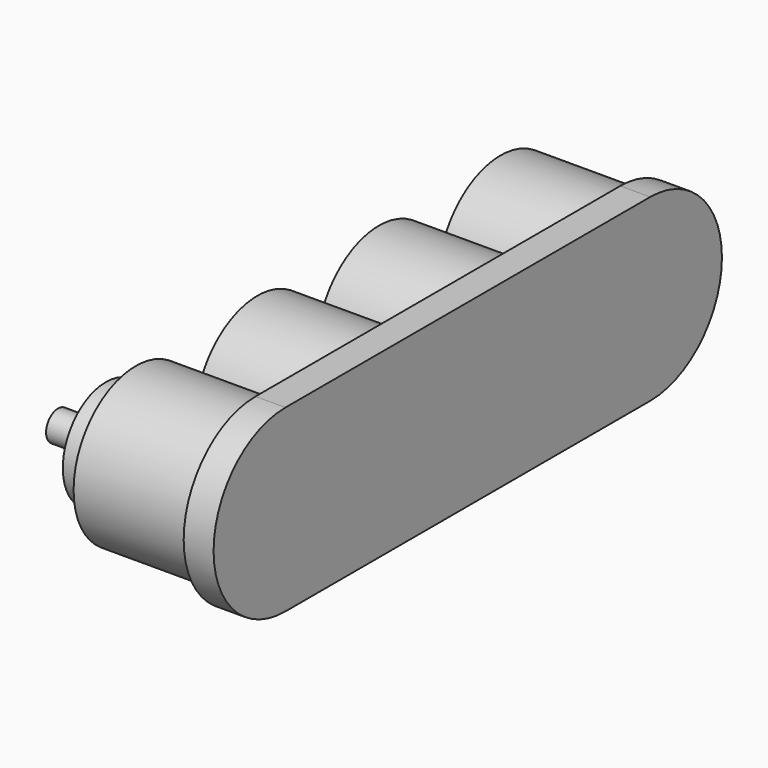
from build123d import *

# Parameters (mm, degrees)
PAD_DEPTH        = 2
PAD001_DEPTH     = 0.5
HOLE_D           = 1.4
HOLE_DEPTH       = 2
HOLE_CBORE_D     = 1.8
HOLE_CBORE_DEPTH = 1.3


with BuildPart() as obj1:
    # Sketch → Revolution (revolve)
    with BuildSketch(Plane(origin=(0, 0, 0), x_dir=(-1, 0, 0), z_dir=(0, 1, 0))):
        with BuildLine():
            Line((-1.85, 0.9), (0, 0.9))
            Line((0, 0.9), (0, 0.25))
            Line((0.8, 0.25), (0, 0.25))
            Line((0.8, 0), (0.8, 0.25))
            Line((-2.4, 0), (0.8, 0))
            Line((-2.4, 0), (-2.4, 0.15))
            ThreePointArc((-1.95, 0.6), (-2.268198, 0.468198), (-2.4, 0.15))
            Line((-1.9, 0.6), (-1.95, 0.6))
            Line((-1.9, 0.6), (-1.9, 0.85))
            ThreePointArc((-1.85, 0.9), (-1.885355, 0.885355), (-1.9, 0.85))
        make_face()
    revolve(axis=Axis((0, 0, 0), (-1, 0, 0)))


with BuildPart() as obj1_cap:
    # Sketch001 → Pad (new body)
    with BuildSketch(Plane.YZ.offset(0.5)):
        with BuildLine():
            ThreePointArc((1.2, 0.5), (-1.3, 0), (1.2, -0.5))
            Line((1.2, -0.5), (1.34, -0.5))
            ThreePointArc((1.34, -0.5), (2.54, -1.3), (3.74, -0.5))
            Line((3.74, -0.5), (3.88, -0.5))
            ThreePointArc((3.88, -0.5), (5.08, -1.3), (6.28, -0.5))
            Line((6.42, -0.5), (6.28, -0.5))
            ThreePointArc((6.42, -0.5), (8.92, 0), (6.42, 0.5))
            Line((6.28, 0.5), (6.42, 0.5))
            ThreePointArc((6.28, 0.5), (5.08, 1.3), (3.88, 0.5))
            Line((3.74, 0.5), (3.88, 0.5))
            ThreePointArc((3.74, 0.5), (2.54, 1.3), (1.34, 0.5))
            Line((1.2, 0.5), (1.34, 0.5))
        make_face()
    extrude(amount=PAD_DEPTH)

    # Sketch002 → Pad001 (join)
    with BuildSketch(Plane.YZ.offset(2.5)):
        with BuildLine():
            ThreePointArc((0, 1.5), (-1.5, 0), (0, -1.5))
            Line((0, -1.5), (7.62, -1.5))
            ThreePointArc((7.62, -1.5), (9.12, 0), (7.62, 1.5))
            Line((7.62, 1.5), (0, 1.5))
        make_face()
    extrude(amount=PAD001_DEPTH)

    # Hole
    with Locations(Plane(origin=(0.5, 0, 0), x_dir=(0, 1, 0), z_dir=(-1, 0, 0))):
        with Locations((0, 0), (2.54, 0), (5.08, 0), (7.62, 0)):
            CounterBoreHole(HOLE_D / 2, HOLE_CBORE_D / 2, HOLE_CBORE_DEPTH, depth=HOLE_DEPTH)


solid = Compound([obj1.part, obj1_cap.part])
